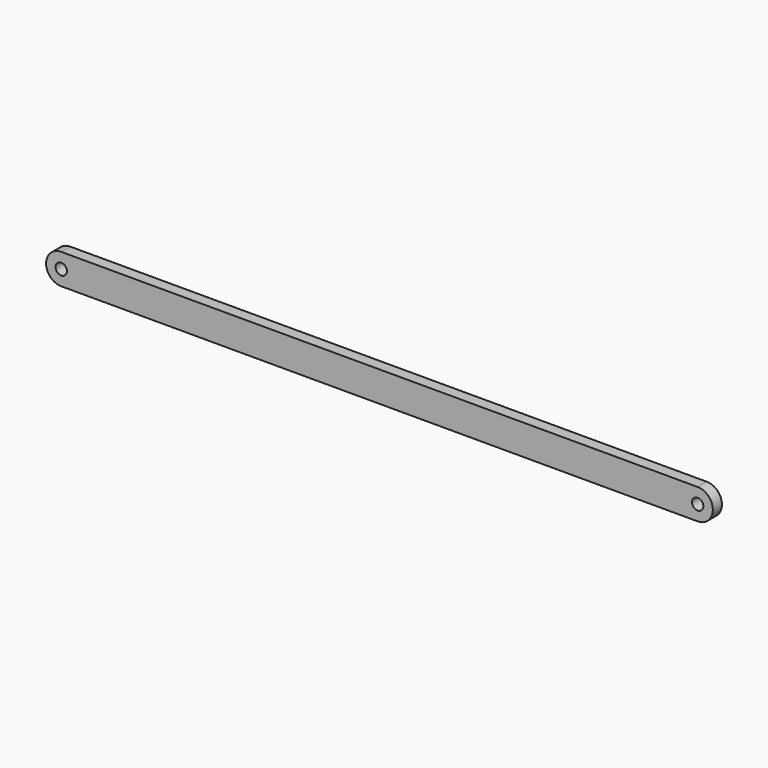
from build123d import *

# Parameters (mm, degrees)
F1_DEPTH = 4.7625
F3_D     = 9.525


with BuildPart() as f1:
    # F0 (on Front) → F1 (new body, symmetric)
    with BuildSketch(Plane.XZ):
        with BuildLine():
            Line((266.7, 12.7), (-266.7, 12.7))
            ThreePointArc((-266.7, 12.7), (-279.4, 0), (-266.7, -12.7))
            Line((-266.7, -12.7), (266.7, -12.7))
            ThreePointArc((266.7, -12.7), (279.4, 0), (266.7, 12.7))
        make_face()
    extrude(amount=F1_DEPTH, both=True)

    # F3 (through all)
    with Locations(Plane.XZ.offset(4.7625)):
        with Locations((-266.7, 0), (266.7, 0)):
            Hole(F3_D / 2)


solid = f1.part
